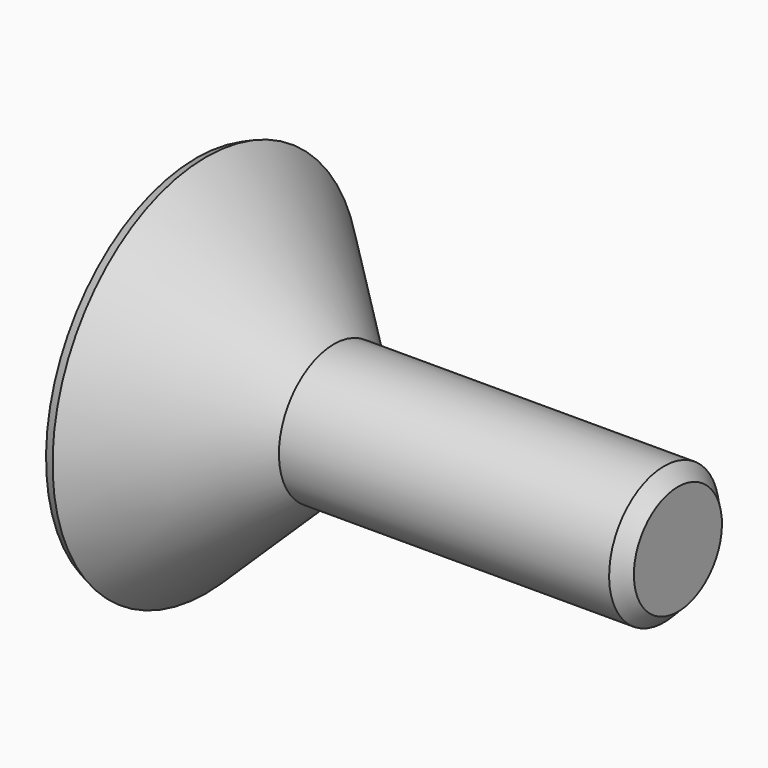
from build123d import *

# Parameters (mm, degrees)
F3_DEPTH = 4
F4_SIZE  = 1
F5_SIZE  = 1


with BuildPart() as f1:
    # F0 (on Front) → F1 (revolve)
    with BuildSketch(Plane.XZ):
        Polygon((0, 14.656888), (0, 0), (35, 0), (35, 5), (10, 5), align=None)
    revolve(axis=Axis((41.428571, 0, 0), (1, 0, 0)))

    # F2 (on face) → F3 (cut)
    with BuildSketch(Plane(origin=(0, 0, 0), x_dir=(0, -1, 0), z_dir=(-1, 0, 0))):
        Polygon((-3.464102, -6), (3.464102, -6), (6.928203, 0), (3.464102, 6), (-3.464102, 6), (-6.928203, 0), align=None)
    extrude(amount=-F3_DEPTH, mode=Mode.SUBTRACT)

    # F4
    f4_edges = [f1.edges().sort_by_distance(p)[0] for p in [
        (35, 0, -5),
    ]]
    chamfer(f4_edges, length=F4_SIZE)

    # F5
    f5_edges = [f1.edges().sort_by_distance(p)[0] for p in [
        (0, 0, -14.656888),
    ]]
    chamfer(f5_edges, length=F5_SIZE)


solid = f1.part
